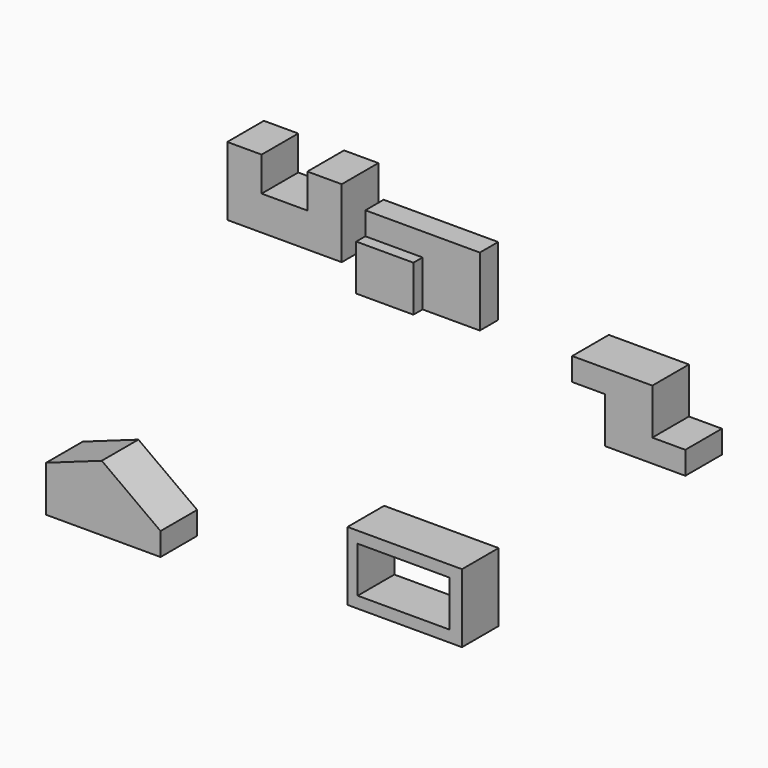
from build123d import *

# Parameters (mm, degrees)
F1_DEPTH  = 101.6
F2_W      = 254
F2_H      = 152.4
F3_DEPTH  = 101.6
F4_W      = 127
F4_H      = 50.8
F5_DEPTH  = 152.4
F6_W      = 127
F6_H      = 101.6
F7_DEPTH  = 25.4
F8_DEPTH  = 50.8
F9_DEPTH  = 25.4
F10_DEPTH = 76.2
F11_W     = 127
F11_H     = 25.4
F12_DEPTH = 50.8
F14_DEPTH = 101.6
F16_DEPTH = 101.6
F17_W     = 254
F17_H     = 152.4
F17_W_2   = 203.2
F17_H_2   = 101.6
F18_DEPTH = 101.6


with BuildPart() as f1:
    # F0 (on Front) → F1 (new body)
    with BuildSketch(Plane.XZ):
        Polygon((254, 0), (254, 152.4), (177.8, 152.4), (177.8, 76.2), (76.2, 76.2), (76.2, 152.4), (0, 152.4), (0, 0), align=None)
    extrude(amount=-F1_DEPTH)


with BuildPart() as f3:
    # F2 (on Front) → F3 (new body)
    with BuildSketch(Plane.XZ):
        with Locations((474.1177520589, 76.2)):
            Rectangle(F2_W, F2_H)
    extrude(amount=F3_DEPTH)

    # F4 (on face) → F5 (cut)
    with BuildSketch(Plane.XY.offset(152.4)):
        with Locations((537.6177520589, -76.2)):
            Rectangle(F4_W, F4_H)
    extrude(amount=-F5_DEPTH, mode=Mode.SUBTRACT)

    # F6 (on face) → F7 (cut)
    with BuildSketch(Plane.XZ.offset(101.6)):
        with Locations((410.6177520589, 101.6)):
            Rectangle(F6_W, F6_H)
    extrude(amount=-F7_DEPTH, mode=Mode.SUBTRACT)

    # F8 (add): a face of the model
    f8_faces = [f3.faces().sort_by_distance(p)[0] for p in [
        (410.6177520589, -88.9, 50.8),
    ]]
    extrude(f8_faces, amount=F8_DEPTH)

    # F9 (cut): a face of the model
    f9_faces = [f3.faces().sort_by_distance(p)[0] for p in [
        (410.6177520589, -88.9, 101.6),
    ]]
    extrude(f9_faces, amount=-F9_DEPTH, mode=Mode.SUBTRACT)

    # F10 (cut): a face of the model
    f10_faces = [f3.faces().sort_by_distance(p)[0] for p in [
        (410.6177520589, -88.9, 76.2),
    ]]
    extrude(f10_faces, amount=-F10_DEPTH, mode=Mode.SUBTRACT)

    # F11 (on face) → F12 (cut)
    with BuildSketch(Plane.XY.offset(152.4)):
        with Locations((410.6177520589, -63.5)):
            Rectangle(F11_W, F11_H)
    extrude(amount=-F12_DEPTH, mode=Mode.SUBTRACT)


with BuildPart() as f14:
    # F13 (on Front) → F14 (new body)
    with BuildSketch(Plane.XZ):
        Polygon((919.9673964482, -101.5560092506), (1097.7673910061, -101.6), (1097.7673910061, -50.8), (1024.556875515, -50.8), (1024.556875515, 50.8), (846.756875515, 50.8), (846.756875515, 0), (919.9673964482, 0), align=None)
    extrude(amount=F14_DEPTH)


with BuildPart() as f16:
    # F15 (on Front) → F16 (new body)
    with BuildSketch(Plane.XZ):
        Polygon((-320.8352584839, -639.0643502142), (-66.8352584839, -639.0643502142), (-66.8352584839, -588.2643502142), (-197.2078233957, -493.3064579964), (-320.8352584839, -537.4643502142), align=None)
    extrude(amount=F16_DEPTH)


with BuildPart() as f18:
    # F17 (on Front) → F18 (new body)
    with BuildSketch(Plane.XZ):
        with Locations((475.1557409763, -521.442592729)):
            Rectangle(F17_W, F17_H)
        with Locations((472.3736432552, -521.442592729)):
            Rectangle(F17_W_2, F17_H_2, mode=Mode.SUBTRACT)
    extrude(amount=F18_DEPTH)


solid = Compound([f1.part, f3.part, f14.part, f16.part, f18.part])
